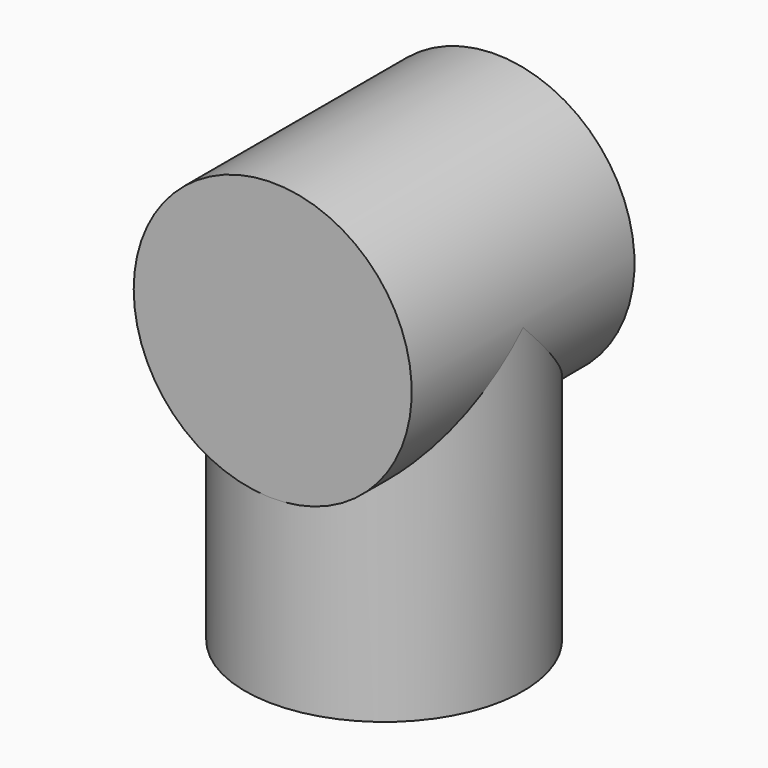
from build123d import *

# Parameters (mm, degrees)
CYLINDER025_R             = 13.9827
CYLINDER025_DEPTH         = 28.0162
CYLINDER026_R             = 13.9827
CYLINDER026_DEPTH         = 32.1945
FUSION012_PLACEMENT_ANGLE = 180


with BuildPart() as cylinder025:
    # Cylinder025 → Cylinder025 (new body)
    with BuildSketch(Plane.XZ.offset(-14.0081)):
        Circle(CYLINDER025_R)
    extrude(amount=CYLINDER025_DEPTH)


with BuildPart() as front_slip_r:
    # Cylinder026 → Cylinder026 (new body)
    with BuildSketch(Plane.XY):
        Circle(CYLINDER026_R)
    extrude(amount=CYLINDER026_DEPTH)

    # Fusion012: union Cylinder025
    add(cylinder025.part)


with BuildPart() as front_slip_r_1:
    # Fusion012 placement: moved
    add(front_slip_r.part.moved(Location((730.25, 217, 406))).rotate(Axis((730.25, 217, 406), (0, 1, 0)), FUSION012_PLACEMENT_ANGLE))


solid = front_slip_r_1.part
